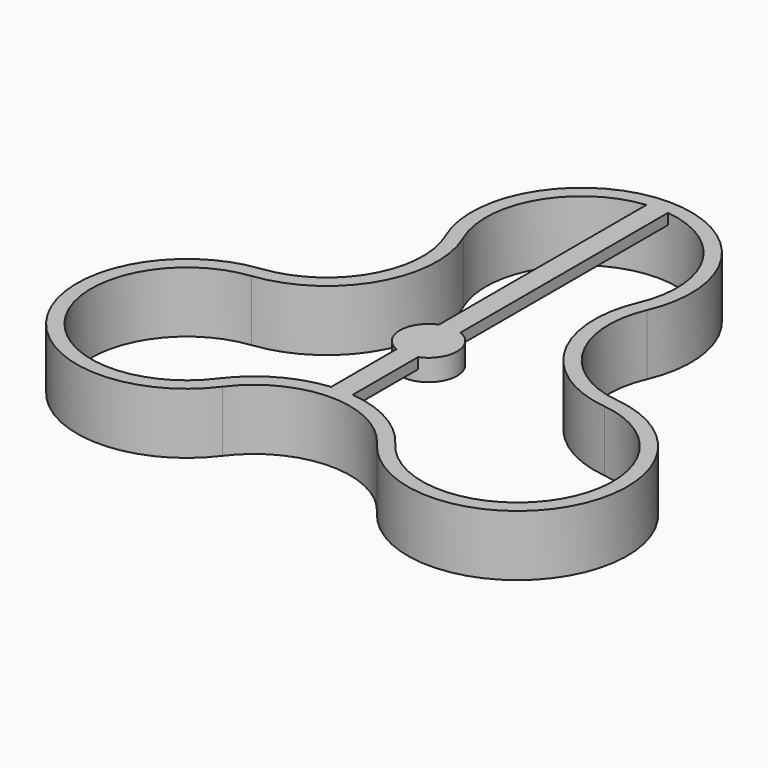
from build123d import *

# Parameters (mm, degrees)
F1_DEPTH = 8.5
F3_DEPTH = 1.5
F4_R     = 4
F5_DEPTH = 1.5


with BuildPart() as f1:
    # F0 (on Top) → F1 (new body)
    with BuildSketch(Plane.XY):
        with BuildLine():
            ThreePointArc((24.8425577786, 1.8999753835), (14.7557370554, 8.519228761), (14.066705838, 20.5642984395))
            ThreePointArc((14.066705838, 20.5642984395), (0, 42), (-14.066705838, 20.5642984395))
            ThreePointArc((-14.066705838, 20.5642984395), (-14.7557370554, 8.519228761), (-24.8425577786, 1.8999753835))
            ThreePointArc((-24.8425577786, 1.8999753835), (-36.3730669589, -21), (-10.7758519407, -22.464273823))
            ThreePointArc((-10.7758519407, -22.464273823), (0, -17.038457522), (10.7758519407, -22.464273823))
            ThreePointArc((10.7758519407, -22.464273823), (36.3730669589, -21), (24.8425577786, 1.8999753835))
        make_face()
        with BuildLine():
            ThreePointArc((-12.23191812, 21.3602595126), (0, 40), (12.23191812, 21.3602595126))
            ThreePointArc((12.23191812, 21.3602595126), (13.0236862478, 7.519228761), (24.6144864293, -0.0869779274))
            ThreePointArc((24.6144864293, -0.0869779274), (34.6410161514, -20), (12.3825683094, -21.2732815852))
            ThreePointArc((12.3825683094, -21.2732815852), (0, -15.038457522), (-12.3825683094, -21.2732815852))
            ThreePointArc((-12.3825683094, -21.2732815852), (-34.6410161514, -20), (-24.6144864293, -0.0869779274))
            ThreePointArc((-24.6144864293, -0.0869779274), (-13.0236862478, 7.519228761), (-12.23191812, 21.3602595126))
        make_face(mode=Mode.SUBTRACT)
    extrude(amount=F1_DEPTH)

    # F2 (on face) → F3 (join)
    with BuildSketch(Plane.XY.offset(8.5)):
        with BuildLine():
            ThreePointArc((1.5, 39.9153563293), (0, 40), (-1.5, 39.9153563293))
            Line((-1.5, 39.9153563293), (-1.5, -15.1116190801))
            ThreePointArc((-1.5, -15.1116190801), (0, -15.038457522), (1.5, -15.1116190801))
            Line((1.5, -15.1116190801), (1.5, 39.9153563293))
        make_face()
    extrude(amount=-F3_DEPTH)

    # F4 (on face) → F5 (join, symmetric)
    with BuildSketch(Plane(origin=(0, 0, 7), x_dir=(1, 0, 0), z_dir=(0, 0, -1))):
        Circle(F4_R)
    extrude(amount=F5_DEPTH, both=True)


solid = f1.part
